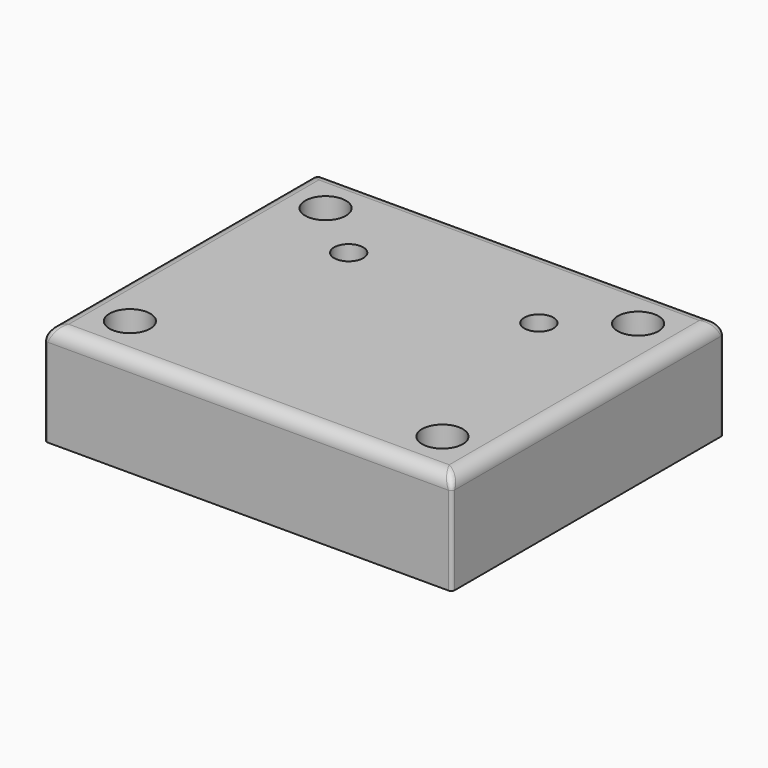
from build123d import *

# Parameters (mm, degrees)
SKETCH015_W         = 60
SKETCH015_H         = 50
PAD005_DEPTH        = 15
HOLE006_D           = 2.8
HOLE006_DEPTH       = 25
HOLE006_CBORE_D     = 6
HOLE006_CBORE_DEPTH = 10
SKETCH018_R         = 2.15
HOLE007_DEPTH       = 25
FILLET008_R         = 0.5
FILLET009_R         = 2


with BuildPart() as part:
    # Sketch015 → Pad005 (new body)
    with BuildSketch(Plane.XY):
        Rectangle(SKETCH015_W, SKETCH015_H)
    extrude(amount=PAD005_DEPTH)

    # Hole006
    with Locations(Plane.XY.offset(15)):
        with Locations((23, 18), (23, -18)):
            hole006 = CounterBoreHole(HOLE006_D / 2, HOLE006_CBORE_D / 2, HOLE006_CBORE_DEPTH, depth=HOLE006_DEPTH)

    # Mirrored009: Hole006 across Sketch016 V_Axis
    add(hole006.mirror(Plane(origin=(0, 0, 15), x_dir=(0, 0, 1), z_dir=(1, 0, 0))), mode=Mode.SUBTRACT)

    # Sketch018 → Hole007 (cut)
    with BuildSketch(Plane.XY.offset(15)):
        with Locations((14, 11)):
            Circle(SKETCH018_R)
    hole007 = extrude(amount=-HOLE007_DEPTH, mode=Mode.SUBTRACT)

    # Mirrored011: Hole007 across Sketch018 V_Axis
    add(hole007.mirror(Plane(origin=(0, 0, 15), x_dir=(0, 0, 1), z_dir=(1, 0, 0))), mode=Mode.SUBTRACT)

    # Fillet008
    fillet008_edges = [part.edges().sort_by_distance(p)[0] for p in [
        (-30, -25, 7.5),
        (30, -25, 7.5),
        (30, 25, 7.5),
        (-30, 25, 7.5),
    ]]
    fillet(fillet008_edges, radius=FILLET008_R)

    # Fillet009
    fillet009_edges = [part.edges().sort_by_distance(p)[0] for p in [
        (0, 25, 15),
        (-30, 0, 15),
        (30, 0, 15),
        (0, -25, 15),
    ]]
    fillet(fillet009_edges, radius=FILLET009_R)


solid = part.part
